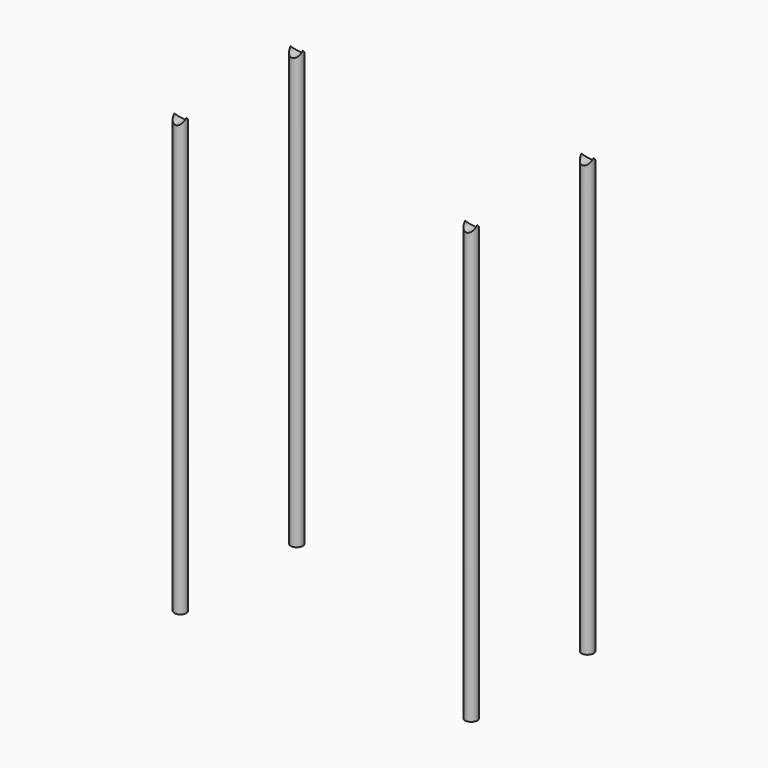
from build123d import *

# Parameters (mm, degrees)
F0_R          = 12.7
F1_DEPTH      = 914.4
F2_R          = 12.7
F3_DEPTH      = 317.501
F3_DEPTH_BACK = 12.701


with BuildPart() as f1:
    # F0 (on Top) → F1 (new body)
    with BuildSketch(Plane.XY):
        with Locations((0, 304.8)):
            Circle(F0_R)
    extrude(amount=F1_DEPTH)


with BuildPart() as f1b:
    # F0 (on Top) → F1, piece 2 (new body)
    with BuildSketch(Plane.XY):
        Circle(F0_R)
    extrude(amount=F1_DEPTH)


with BuildPart() as f1c:
    # F0 (on Top) → F1, piece 3 (new body)
    with BuildSketch(Plane.XY):
        with Locations((609.6, 304.8)):
            Circle(F0_R)
    extrude(amount=F1_DEPTH)


with BuildPart() as f1d:
    # F0 (on Top) → F1, piece 4 (new body)
    with BuildSketch(Plane.XY):
        with Locations((609.6, 0)):
            Circle(F0_R)
    extrude(amount=F1_DEPTH)


with BuildPart() as f3_tool:
    # F2 (on Front) → F3 (new body, two sides)
    with BuildSketch(Plane.XZ) as f3_sk:
        with Locations((0, 914.4)):
            Circle(F2_R)
        with Locations((609.6, 914.4)):
            Circle(F2_R)
    extrude(amount=-F3_DEPTH)
    extrude(f3_sk.sketch, amount=F3_DEPTH_BACK)


with BuildPart() as f1_1:
    add(f1.part)

    # F3: cut by f3_tool
    add(f3_tool.part, mode=Mode.SUBTRACT)


with BuildPart() as f1b_1:
    add(f1b.part)

    # F3: cut by f3_tool
    add(f3_tool.part, mode=Mode.SUBTRACT)


with BuildPart() as f1c_1:
    add(f1c.part)

    # F3: cut by f3_tool
    add(f3_tool.part, mode=Mode.SUBTRACT)


with BuildPart() as f1d_1:
    add(f1d.part)

    # F3: cut by f3_tool
    add(f3_tool.part, mode=Mode.SUBTRACT)


solid = Compound([f1_1.part, f1b_1.part, f1c_1.part, f1d_1.part])
